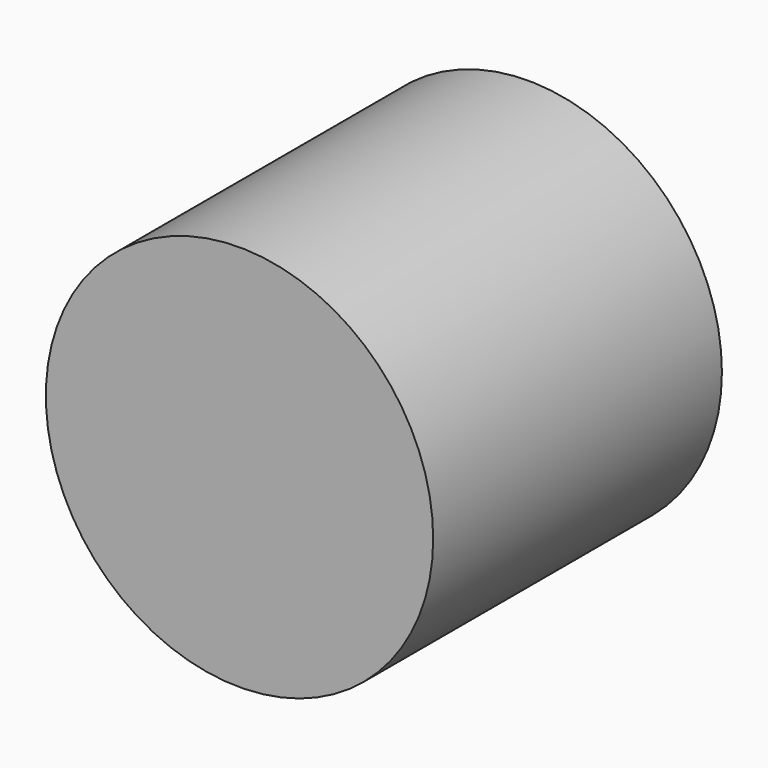
from build123d import *

# Parameters (mm, degrees)
F2_DEPTH = 162.56
F1_R     = 87.2293400051
F5_DEPTH = 157.48
F7_DEPTH = 157.48
F9_DEPTH = 157.48


with BuildPart() as f2:
    # F0 (on Front) → F2 (new body)
    with BuildSketch(Plane.XZ):
        Polygon((-3.7715153303, 16.7024247348), (2.6939406525, 35.8293950558), (-36.9069688022, 38.2539406419), (-21.2821215391, 11.8533335626), align=None)
    extrude(amount=F2_DEPTH)


with BuildPart() as f2b:
    # F1 (on Front) → F2, piece 2 (new body)
    with BuildSketch(Plane.XZ):
        Circle(F1_R)
    extrude(amount=F2_DEPTH)

    # F4 (on face) → F5 (cut)
    with BuildSketch(Plane(origin=(0, 0, 0), x_dir=(-1, 0, 0), z_dir=(0, 1, 0))):
        Polygon((-26.3271015137, 45.3784566633), (-52.4583123624, 11.8539193645), (-39.796795696, 2.6937914081), (-26.3271015137, 12.3927500099), align=None)
    extrude(amount=-F5_DEPTH, mode=Mode.SUBTRACT)

    # F6 (on face) → F7 (cut)
    with BuildSketch(Plane(origin=(0, 0, 0), x_dir=(-1, 0, 0), z_dir=(0, 1, 0))):
        Polygon((-12.5880083069, 17.781060189), (10.3104757145, 45.3784566633), (53.9522953331, 53.074490279), (-10.1634636521, 70.0476691127), align=None)
        Polygon((50.9889610112, -17.2429550439), (23.5107783228, 24.7858650982), (13.2738091052, -17.2429550439), align=None)
        Polygon((73.3486637473, 20.4752162099), (61.4953264594, 34.7542390227), (42.0989617705, 11.8539193645), (57.5345901374, 4.2026060604), (64.728051424, 12.3927500099), (64.728051424, 13.7398280203), (74.6956318617, 8.3515178412), align=None)
        Polygon((-17.7064947784, -24.2477599531), (-19.8616459966, -22.6312670857), (-50.3031611443, -39.6044403315), (21.0862327367, -65.7377541065), (13.2738091052, -39.6044403315), align=None)
    extrude(amount=-F7_DEPTH, mode=Mode.SUBTRACT)

    # F8 (on face) → F9 (cut)
    with BuildSketch(Plane(origin=(0, 0, 0), x_dir=(-1, 0, 0), z_dir=(0, 1, 0))):
        Polygon((-48.995775217, 47.9173291132), (-65.1198253036, 32.3294997215), (-77.2425532341, 5.3879469633), (-70.7771033049, -40.9515202045), (-28.4822527319, -15.6264640391), (-54.8828579485, 2.1549605299), align=None)
        Polygon((-23.902554065, 60.1852526106), (-23.902554065, 63.8511106372), (-40.3355844319, 51.4579974115), (-26.0577071458, 48.7638451159), align=None)
        Polygon((63.6504739523, -52.2669777274), (56.9156296551, -28.0195791274), (47.2174473107, -52.2669777274), align=None)
    extrude(amount=-F9_DEPTH, mode=Mode.SUBTRACT)


solid = f2b.part
